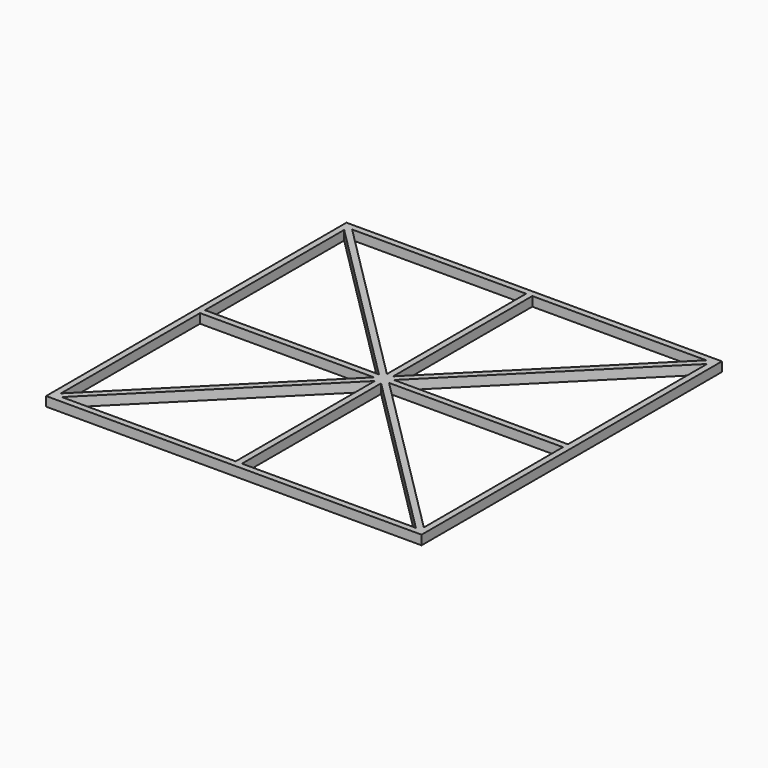
from build123d import *

# Parameters (mm, degrees)
F0_W     = 120
F0_H     = 120
F1_DEPTH = 3


with BuildPart() as f1:
    # F0 (on Top) → F1 (new body)
    with BuildSketch(Plane.XY):
        Rectangle(F0_W, F0_H)
        Polygon((-1, -58), (-56.585786, -58), (-1, -2.414214), align=None, mode=Mode.SUBTRACT)
        Polygon((-58, -56.585786), (-58, -1), (-2.414214, -1), align=None, mode=Mode.SUBTRACT)
        Polygon((1, -58), (1, -2.414214), (56.585786, -58), align=None, mode=Mode.SUBTRACT)
        Polygon((58, -56.585786), (2.414214, -1), (58, -1), align=None, mode=Mode.SUBTRACT)
        Polygon((-58, 1), (-58, 56.585786), (-2.414214, 1), align=None, mode=Mode.SUBTRACT)
        Polygon((-1, 2.414214), (-56.585786, 58), (-1, 58), align=None, mode=Mode.SUBTRACT)
        Polygon((58, 1), (2.414214, 1), (58, 56.585786), align=None, mode=Mode.SUBTRACT)
        Polygon((1, 2.414214), (1, 58), (56.585786, 58), align=None, mode=Mode.SUBTRACT)
    extrude(amount=F1_DEPTH)


solid = f1.part
